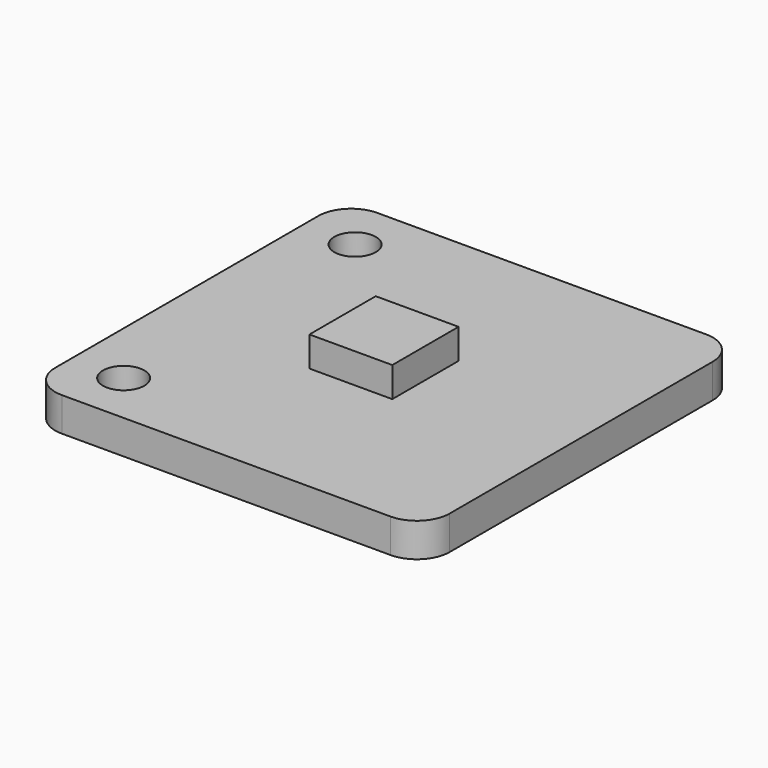
from build123d import *

# Parameters (mm, degrees)
F0_W     = 19.05
F0_H     = 19.05
F1_DEPTH = 1.6383
F2_R     = 1.5875
F3_R     = 1
F4_DEPTH = 1.6393
F5_W     = 4
F5_H     = 4
F6_DEPTH = 1.45


with BuildPart() as f1:
    # F0 (on Top) → F1 (new body)
    with BuildSketch(Plane.XY):
        Rectangle(F0_W, F0_H)
    extrude(amount=F1_DEPTH)

    # F2
    f2_edges = [f1.edges().sort_by_distance(p)[0] for p in [
        (-9.525, 9.525, 0.81915),
        (9.525, 9.525, 0.81915),
        (9.525, -9.525, 0.81915),
        (-9.525, -9.525, 0.81915),
    ]]
    fillet(f2_edges, radius=F2_R)

    # F3 (on face) → F4 (cut, through all)
    with BuildSketch(Plane.XY.offset(1.6383)):
        with Locations((-6.985, 6.985)):
            Circle(F3_R)
        with Locations((-6.985, -6.985)):
            Circle(F3_R)
    extrude(amount=-F4_DEPTH, mode=Mode.SUBTRACT)

    # F5 (on face) → F6 (join)
    with BuildSketch(Plane.XY.offset(1.6383)):
        Rectangle(F5_W, F5_H)
    extrude(amount=F6_DEPTH)


solid = f1.part
